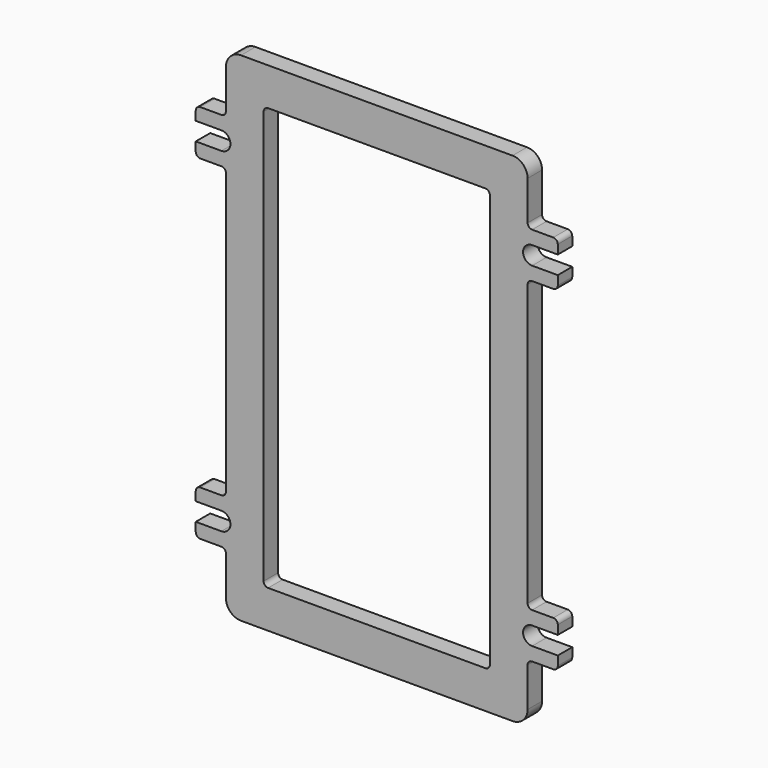
from build123d import *

# Parameters (mm, degrees)
F1_DEPTH = 6
F2_R     = 10
F3_R     = 3
F4_R     = 3
F5_R     = 3


with BuildPart() as f1:
    # F0 (on Front) → F1 (new body, symmetric)
    with BuildSketch(Plane.XZ):
        with BuildLine():
            Line((0, 111.17877506), (-100, 111.17877506))
            Line((-100, 111.17877506), (-100, 72.17877506))
            Line((-100, 72.17877506), (-120, 72.17877506))
            Line((-120, 72.17877506), (-120, 63.17877506))
            Line((-120, 63.17877506), (-103, 63.17877506))
            ThreePointArc((-103, 63.17877506), (-97, 57.17877506), (-103, 51.17877506))
            Line((-103, 51.17877506), (-120, 51.17877506))
            Line((-120, 51.17877506), (-120, 42.17877506))
            Line((-120, 42.17877506), (-100, 42.17877506))
            Line((-100, 42.17877506), (-100, -53.82122494))
            Line((-100, -53.82122494), (-100, -149.82122494))
            Line((-100, -149.82122494), (-120, -149.82122494))
            Line((-120, -149.82122494), (-120, -158.82122494))
            Line((-120, -158.82122494), (-103, -158.82122494))
            ThreePointArc((-103, -158.82122494), (-97, -164.82122494), (-103, -170.82122494))
            Line((-103, -170.82122494), (-120, -170.82122494))
            Line((-120, -170.82122494), (-120, -179.82122494))
            Line((-120, -179.82122494), (-100, -179.82122494))
            Line((-100, -179.82122494), (-100, -218.82122494))
            Line((-100, -218.82122494), (0, -218.82122494))
            Line((0, -218.82122494), (100, -218.82122494))
            Line((100, -218.82122494), (100, -179.82122494))
            Line((100, -179.82122494), (120, -179.82122494))
            Line((120, -179.82122494), (120, -170.82122494))
            Line((120, -170.82122494), (103, -170.82122494))
            ThreePointArc((103, -170.82122494), (97, -164.82122494), (103, -158.82122494))
            Line((103, -158.82122494), (120, -158.82122494))
            Line((120, -158.82122494), (120, -149.82122494))
            Line((120, -149.82122494), (100, -149.82122494))
            Line((100, -149.82122494), (100, -53.82122494))
            Line((100, -53.82122494), (100, 42.17877506))
            Line((100, 42.17877506), (120, 42.17877506))
            Line((120, 42.17877506), (120, 51.17877506))
            Line((120, 51.17877506), (103, 51.17877506))
            ThreePointArc((103, 51.17877506), (97, 57.17877506), (103, 63.17877506))
            Line((103, 63.17877506), (120, 63.17877506))
            Line((120, 63.17877506), (120, 72.17877506))
            Line((120, 72.17877506), (100, 72.17877506))
            Line((100, 72.17877506), (100, 111.17877506))
            Line((100, 111.17877506), (0, 111.17877506))
        make_face()
        Polygon((-75, -53.82122494), (-75, 86.17877506), (0, 86.17877506), (75, 86.17877506), (75, -53.82122494), (75, -193.82122494), (0, -193.82122494), (-75, -193.82122494), align=None, mode=Mode.SUBTRACT)
    extrude(amount=F1_DEPTH, both=True)

    # F2
    f2_edges = [f1.edges().sort_by_distance(p)[0] for p in [
        (100, 0, 111.178775),
        (-100, 0, 111.178775),
        (100, 0, -218.821225),
        (-100, 0, -218.821225),
    ]]
    fillet(f2_edges, radius=F2_R)

    # F3
    f3_edges = [f1.edges().sort_by_distance(p)[0] for p in [
        (-75, 0, -193.821225),
        (75, 0, -193.821225),
        (75, 0, 86.178775),
        (-75, 0, 86.178775),
    ]]
    fillet(f3_edges, radius=F3_R)

    # F4
    f4_edges = [f1.edges().sort_by_distance(p)[0] for p in [
        (-120, 0, -149.821225),
        (-120, 0, -179.821225),
        (120, 0, -149.821225),
        (120, 0, -179.821225),
        (120, 0, 72.178775),
        (120, 0, 42.178775),
        (-120, 0, 72.178775),
        (-120, 0, 42.178775),
    ]]
    fillet(f4_edges, radius=F4_R)

    # F5
    f5_edges = [f1.edges().sort_by_distance(p)[0] for p in [
        (100, 0, 72.178775),
        (100, 0, 42.178775),
        (100, 0, -179.821225),
        (100, 0, -149.821225),
        (-100, 0, -149.821225),
        (-100, 0, -179.821225),
        (-100, 0, 72.178775),
        (-100, 0, 42.178775),
    ]]
    fillet(f5_edges, radius=F5_R)


solid = f1.part
